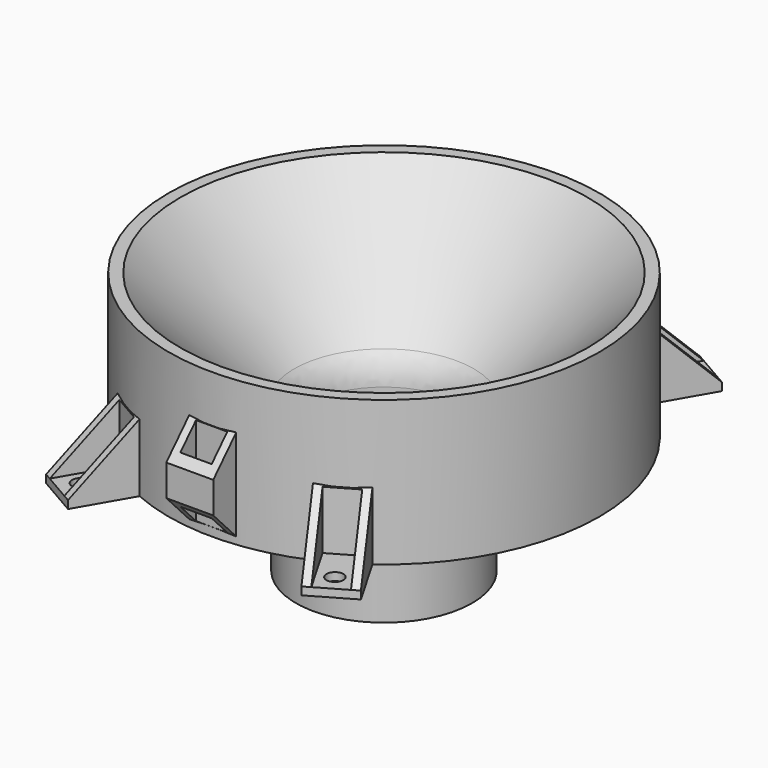
from build123d import *

# Parameters (mm, degrees)
PAD_DEPTH             = 6
SKETCH003_W           = 8
SKETCH003_H           = 5
POCKET_DEPTH          = 385.012494
POLARPATTERN001_COUNT = 2
PAD001_DEPTH          = 6
POCKET001_DEPTH       = 394.833356
SKETCH006_R           = 2.15
POCKET002_DEPTH       = 396.833356
POLARPATTERN002_COUNT = 2
POLARPATTERN002_ANGLE = 60
POLARPATTERN003_COUNT = 2
POLARPATTERN004_COUNT = 2
POLARPATTERN004_ANGLE = 240
FILLET_R              = 10


with BuildPart() as part:
    # Sketch → Revolution (revolve)
    with BuildSketch(Plane.XZ):
        Polygon((55, 37), (55, 0), (22.5, 0), (22.5, -30), (20, -30), (20, 5), (52, 37), align=None)
    revolve(axis=Axis((0, 0, 0), (0, 0, 1)))

    # Sketch002 (on DatumPlane) → Pad (new body, symmetric)
    with BuildSketch(Plane.YZ):
        Polygon((53, 0.1), (62, 9.55), (62, 17.55), (53, 27), align=None)
    pad = extrude(amount=PAD_DEPTH, both=True)

    # Sketch003 → Pocket (cut, through all)
    with BuildSketch(Plane.XY):
        with Locations((0, 57.51)):
            Rectangle(SKETCH003_W, SKETCH003_H)
    pocket = extrude(amount=POCKET_DEPTH, mode=Mode.SUBTRACT)

    # PolarPattern001: Pad, Pocket ×2 about axis
    polarpattern001_axis = Axis((0, 0, 0), (0, 0, 1))
    for i in range(1, POLARPATTERN001_COUNT):
        add(pad.rotate(polarpattern001_axis, i * 360 / POLARPATTERN001_COUNT))
        add(pocket.rotate(polarpattern001_axis, i * 360 / POLARPATTERN001_COUNT), mode=Mode.SUBTRACT)

    # Sketch004 (on DatumPlane) → Pad001 (join, symmetric)
    with BuildSketch(Plane(origin=(0, 0, 0), x_dir=(0.5, 0.866025, 0), z_dir=(0.866025, -0.5, 0))):
        Polygon((52, 0), (70, 0), (70, 2), (52, 20), align=None)
    pad001 = extrude(amount=PAD001_DEPTH, both=True)

    # Sketch005 → Pocket001 (cut, through all)
    with BuildSketch(Plane.XY.offset(2)):
        Polygon((32.035898, 63.487804), (38.964102, 59.487804), (31.014102, 45.718), (24.085898, 49.718), align=None)
    pocket001 = extrude(amount=POCKET001_DEPTH, mode=Mode.SUBTRACT)

    # Sketch006 → Pocket002 (cut, through all)
    with BuildSketch(Plane.XY):
        with Locations((32.5, 56.291651)):
            Circle(SKETCH006_R)
    pocket002 = extrude(amount=POCKET002_DEPTH, mode=Mode.SUBTRACT)

    # PolarPattern002: Pad001, Pocket001, Pocket002 ×2 about axis
    polarpattern002_axis = Axis((0, 0, 0), (0, 0, 1))
    for i in range(1, POLARPATTERN002_COUNT):
        add(pad001.rotate(polarpattern002_axis, i * POLARPATTERN002_ANGLE / (POLARPATTERN002_COUNT - 1)))
        add(pocket001.rotate(polarpattern002_axis, i * POLARPATTERN002_ANGLE / (POLARPATTERN002_COUNT - 1)), mode=Mode.SUBTRACT)
        add(pocket002.rotate(polarpattern002_axis, i * POLARPATTERN002_ANGLE / (POLARPATTERN002_COUNT - 1)), mode=Mode.SUBTRACT)

    # PolarPattern003: Pad001, Pocket001, Pocket002 ×2 about axis
    polarpattern003_axis = Axis((0, 0, 0), (0, 0, 1))
    for i in range(1, POLARPATTERN003_COUNT):
        add(pad001.rotate(polarpattern003_axis, i * 360 / POLARPATTERN003_COUNT))
        add(pocket001.rotate(polarpattern003_axis, i * 360 / POLARPATTERN003_COUNT), mode=Mode.SUBTRACT)
        add(pocket002.rotate(polarpattern003_axis, i * 360 / POLARPATTERN003_COUNT), mode=Mode.SUBTRACT)

    # PolarPattern004: Pad001, Pocket001, Pocket002 ×2 about axis
    polarpattern004_axis = Axis((0, 0, 0), (0, 0, 1))
    for i in range(1, POLARPATTERN004_COUNT):
        add(pad001.rotate(polarpattern004_axis, i * POLARPATTERN004_ANGLE / (POLARPATTERN004_COUNT - 1)))
        add(pocket001.rotate(polarpattern004_axis, i * POLARPATTERN004_ANGLE / (POLARPATTERN004_COUNT - 1)), mode=Mode.SUBTRACT)
        add(pocket002.rotate(polarpattern004_axis, i * POLARPATTERN004_ANGLE / (POLARPATTERN004_COUNT - 1)), mode=Mode.SUBTRACT)

    # Fillet
    fillet_edges = [part.edges().sort_by_distance(p)[0] for p in [
        (-20, 0, 5),
    ]]
    fillet(fillet_edges, radius=FILLET_R)


solid = part.part
